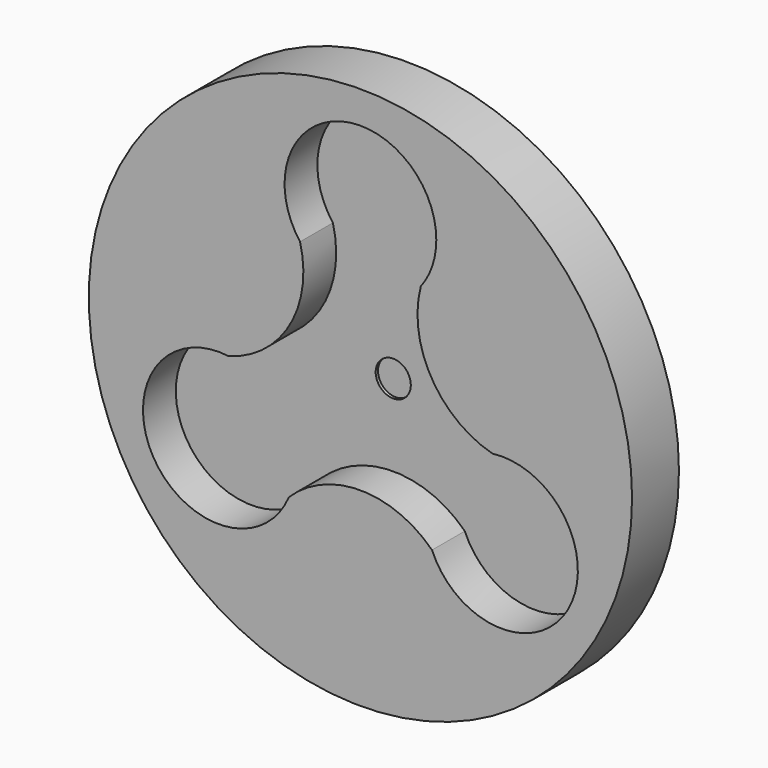
from build123d import *

# Parameters (mm, degrees)
F0_R     = 46.3668582169
F1_DEPTH = 10
F0_R_2   = 12.95
F0_R_3   = 10.95
F0_R_4   = 3
F2_DEPTH = 3
F0_R_5   = 2.5
F3_DEPTH = 2.5


with BuildPart() as f1:
    # F0 (on Front) → F1 (new body)
    with BuildSketch(Plane.XZ):
        Circle(F0_R)
        with BuildLine():
            ThreePointArc((-10.3030346023, 20.0546205966), (-4.1399397278, 40.1704278267), (12.95, 27.9))
            ThreePointArc((12.95, 27.9), (12.2704278267, 23.7600602722), (10.3030346023, 20.0546205966))
            ThreePointArc((10.3030346023, 20.0546205966), (12.0696833018, 6.9684349033), (22.5193282011, -1.1046205966))
            ThreePointArc((22.5193282011, -1.1046205966), (32.7186411149, -4.2294931122), (37.1121087656, -13.95))
            ThreePointArc((37.1121087656, -13.95), (26.7120297045, -26.6464720771), (12.2162935988, -18.95))
            ThreePointArc((12.2162935988, -18.95), (0, -13.9368698067), (-12.2162935988, -18.95))
            ThreePointArc((-12.2162935988, -18.95), (-35.3771377446, -20.425), (-22.5193282011, -1.1046205966))
            ThreePointArc((-22.5193282011, -1.1046205966), (-12.0696833018, 6.9684349033), (-10.3030346023, 20.0546205966))
        make_face(mode=Mode.SUBTRACT)
    extrude(amount=F1_DEPTH)

    # F0 (on Front) → F2 (join)
    with BuildSketch(Plane.XZ):
        with BuildLine():
            ThreePointArc((10.3030346023, 20.0546205966), (0, 14.95), (-10.3030346023, 20.0546205966))
            ThreePointArc((-10.3030346023, 20.0546205966), (-12.0696833018, 6.9684349033), (-22.5193282011, -1.1046205966))
            ThreePointArc((-22.5193282011, -1.1046205966), (-14.4416018778, -5.3934676507), (-11.2121087656, -13.95))
            ThreePointArc((-11.2121087656, -13.95), (-11.4656366885, -16.4999209389), (-12.2162935988, -18.95))
            ThreePointArc((-12.2162935988, -18.95), (0, -13.9368698067), (12.2162935988, -18.95))
            ThreePointArc((12.2162935988, -18.95), (12.9470797866, -7.475), (22.5193282011, -1.1046205966))
            ThreePointArc((22.5193282011, -1.1046205966), (12.0696833018, 6.9684349033), (10.3030346023, 20.0546205966))
        make_face()
        Circle(F0_R_2, mode=Mode.SUBTRACT)
        Circle(F0_R_2)
        Circle(F0_R_3, mode=Mode.SUBTRACT)
        with BuildLine():
            ThreePointArc((10.3030346023, 20.0546205966), (12.2704278267, 23.7600602722), (12.95, 27.9))
            ThreePointArc((12.95, 27.9), (-4.1399397278, 40.1704278267), (-10.3030346023, 20.0546205966))
            ThreePointArc((-10.3030346023, 20.0546205966), (0, 14.95), (10.3030346023, 20.0546205966))
        make_face()
        with Locations((0, 27.9)):
            Circle(F0_R_3, mode=Mode.SUBTRACT)
        with BuildLine():
            ThreePointArc((37.1121087656, -13.95), (32.7186411149, -4.2294931122), (22.5193282011, -1.1046205966))
            ThreePointArc((22.5193282011, -1.1046205966), (12.9470797866, -7.475), (12.2162935988, -18.95))
            ThreePointArc((12.2162935988, -18.95), (26.7120297045, -26.6464720771), (37.1121087656, -13.95))
        make_face()
        with Locations((24.1621087656, -13.95)):
            Circle(F0_R_3, mode=Mode.SUBTRACT)
        with BuildLine():
            ThreePointArc((-11.2121087656, -13.95), (-14.4416018778, -5.3934676507), (-22.5193282011, -1.1046205966))
            ThreePointArc((-22.5193282011, -1.1046205966), (-35.3771377446, -20.425), (-12.2162935988, -18.95))
            ThreePointArc((-12.2162935988, -18.95), (-11.4656366885, -16.4999209389), (-11.2121087656, -13.95))
        make_face()
        with Locations((-24.1621087656, -13.95)):
            Circle(F0_R_3, mode=Mode.SUBTRACT)
        Circle(F0_R_3)
        Circle(F0_R_4, mode=Mode.SUBTRACT)
        with Locations((0, 27.9)):
            Circle(F0_R_3)
        with Locations((24.1621087656, -13.95)):
            Circle(F0_R_3)
        with Locations((-24.1621087656, -13.95)):
            Circle(F0_R_3)
    extrude(amount=F2_DEPTH)

    # F0 (on Front) → F3 (join)
    with BuildSketch(Plane.XZ):
        Circle(F0_R)
        with BuildLine():
            ThreePointArc((-10.3030346023, 20.0546205966), (-4.1399397278, 40.1704278267), (12.95, 27.9))
            ThreePointArc((12.95, 27.9), (12.2704278267, 23.7600602722), (10.3030346023, 20.0546205966))
            ThreePointArc((10.3030346023, 20.0546205966), (12.0696833018, 6.9684349033), (22.5193282011, -1.1046205966))
            ThreePointArc((22.5193282011, -1.1046205966), (32.7186411149, -4.2294931122), (37.1121087656, -13.95))
            ThreePointArc((37.1121087656, -13.95), (26.7120297045, -26.6464720771), (12.2162935988, -18.95))
            ThreePointArc((12.2162935988, -18.95), (0, -13.9368698067), (-12.2162935988, -18.95))
            ThreePointArc((-12.2162935988, -18.95), (-35.3771377446, -20.425), (-22.5193282011, -1.1046205966))
            ThreePointArc((-22.5193282011, -1.1046205966), (-12.0696833018, 6.9684349033), (-10.3030346023, 20.0546205966))
        make_face(mode=Mode.SUBTRACT)
        Circle(F0_R_4)
        Circle(F0_R_5, mode=Mode.SUBTRACT)
        Circle(F0_R_5)
    extrude(amount=F3_DEPTH)


solid = f1.part
